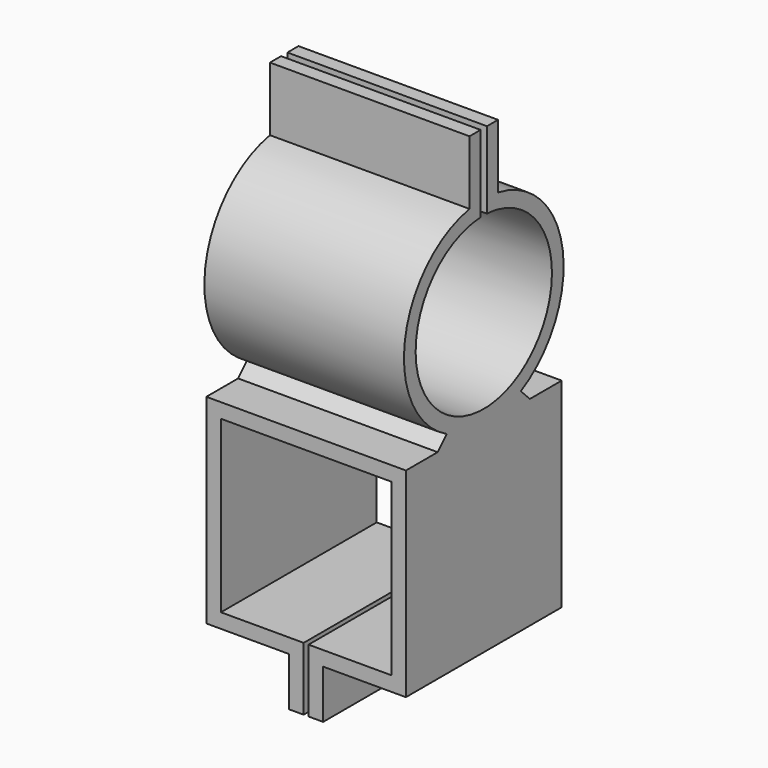
from build123d import *

# Parameters (mm, degrees)
F1_DEPTH = 20
F3_DEPTH = 20.5


with BuildPart() as f1:
    # F0 (on Front) → F1 (new body, symmetric)
    with BuildSketch(Plane.XZ):
        Polygon((17.5, -3), (17.5, -38), (0.5, -38), (0.5, -51), (3.5, -51), (3.5, -41), (20.5, -41), (20.5, 0), (-20.5, 0), (-20.5, -41), (-3.5, -41), (-3.5, -51), (-0.5, -51), (-0.5, -38), (-17.5, -38), (-17.5, -3), align=None)
    extrude(amount=F1_DEPTH, both=True)

    # F2 (on Right) → F3 (join, symmetric)
    with BuildSketch(Plane.YZ):
        with BuildLine():
            ThreePointArc((-3.665483, 37.611816), (-2.248865, 37.854901), (-0.817078, 37.980915))
            Line((-0.817078, 37.980915), (-0.817078, 40.98371))
            ThreePointArc((-0.817078, 40.98371), (-2.246775, 40.876506), (-3.665483, 40.669636))
            Line((-3.665483, 40.669636), (-3.665483, 37.611816))
        make_face()
        with BuildLine():
            ThreePointArc((3.665483, 37.611816), (0, 3), (-3.665483, 37.611816))
            Line((-3.665483, 37.611816), (-3.665483, 40.669636))
            ThreePointArc((-3.665483, 40.669636), (-20.266147, 23.587602), (-9.505562, 2.337008))
            ThreePointArc((-9.505562, 2.337008), (-4.894316, 0.592824), (0, 0))
            ThreePointArc((0, 0), (4.894316, 0.592824), (9.505562, 2.337008))
            ThreePointArc((9.505562, 2.337008), (20.266147, 23.587602), (3.665483, 40.669636))
            Line((3.665483, 40.669636), (3.665483, 37.611816))
        make_face()
        with BuildLine():
            ThreePointArc((-3.665483, 40.669636), (-2.246775, 40.876506), (-0.817078, 40.98371))
            Line((-0.817078, 40.98371), (-0.817078, 53.804141))
            Line((-0.817078, 53.804141), (-3.665483, 53.804141))
            Line((-3.665483, 53.804141), (-3.665483, 40.669636))
        make_face()
        with BuildLine():
            ThreePointArc((0.817078, 37.980915), (2.248865, 37.854901), (3.665483, 37.611816))
            Line((3.665483, 37.611816), (3.665483, 40.669636))
            ThreePointArc((3.665483, 40.669636), (2.246775, 40.876506), (0.817078, 40.98371))
            Line((0.817078, 40.98371), (0.817078, 37.980915))
        make_face()
        with BuildLine():
            ThreePointArc((0.817078, 40.98371), (2.246775, 40.876506), (3.665483, 40.669636))
            Line((3.665483, 40.669636), (3.665483, 53.804141))
            Line((3.665483, 53.804141), (0.817078, 53.804141))
            Line((0.817078, 53.804141), (0.817078, 40.98371))
        make_face()
        with BuildLine():
            ThreePointArc((0, 0), (-4.894316, 0.592824), (-9.505562, 2.337008))
            Line((-9.505562, 2.337008), (-11.84257, 0))
            Line((-11.84257, 0), (0, 0))
        make_face()
        with BuildLine():
            Line((11.84257, 0), (9.505562, 2.337008))
            ThreePointArc((9.505562, 2.337008), (4.894316, 0.592824), (0, 0))
            Line((0, 0), (11.84257, 0))
        make_face()
    extrude(amount=F3_DEPTH, both=True)


solid = f1.part
